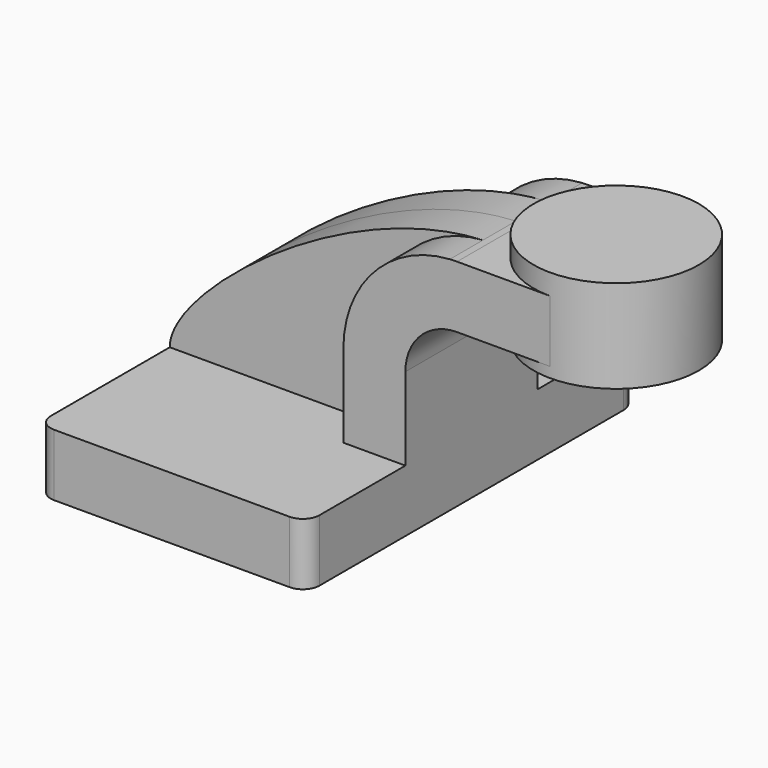
from build123d import *

# Parameters (mm, degrees)
F1_DEPTH = 63.5
F2_DEPTH = 25.4
F3_DEPTH = 12.7
F5_R     = 5.08


with BuildPart() as f1:
    # F0 (on Front) → F1 (new body, symmetric)
    with BuildSketch(Plane.XZ):
        Polygon((22.225, 9.525), (-41.275, 9.525), (-41.275, -9.525), (41.275, -9.525), (41.275, 9.525), align=None)
    extrude(amount=F1_DEPTH, both=True)

    # F0 (on Front) → F2 (join, symmetric)
    with BuildSketch(Plane.XZ):
        with BuildLine():
            Line((22.225, 34.925), (22.225, 9.525))
            Line((22.225, 9.525), (41.275, 9.525))
            Line((41.275, 9.525), (41.275, 34.925))
            ThreePointArc((41.275, 34.925), (45.92468, 46.15032), (57.15, 50.8))
            Line((57.15, 50.8), (60.325, 50.8))
            Line((60.325, 50.8), (60.325, 69.85))
            Line((60.325, 69.85), (57.15, 69.85))
            add(Edge.make_bspline(
                [(54.932606, 69.779538), (55.674519, 69.814721), (56.413753, 69.838317), (57.15, 69.85)],
                knots=[113.508266, 113.508266, 113.508266, 113.508266, 115.440834, 115.440834, 115.440834, 115.440834], degree=3))
            ThreePointArc((54.932606, 69.779538), (31.682392, 58.823882), (22.225, 34.925))
        make_face()
        Polygon((73.748745, 69.85), (60.325, 69.85), (60.325, 50.8), (73.748745, 50.8), (85.725, 50.8), (85.725, 61.9125), (85.725, 69.85), align=None)
    extrude(amount=F2_DEPTH, both=True)

    # F0 (on Front) → F3 (join, symmetric)
    with BuildSketch(Plane.XZ):
        with BuildLine():
            add(Edge.make_bspline(
                [(-41.275, 9.525), (-41.462009, 25.67143), (11.356779, 67.713042), (54.932606, 69.779538)],
                knots=[0, 0, 0, 0, 113.508266, 113.508266, 113.508266, 113.508266], degree=3))
            Line((-41.275, 9.525), (22.225, 9.525))
            Line((22.225, 9.525), (22.225, 34.925))
            ThreePointArc((22.225, 34.925), (31.682392, 58.823882), (54.932606, 69.779538))
        make_face()
    extrude(amount=F3_DEPTH, both=True)

    # F0 (on Front) → F4 (revolve)
    with BuildSketch(Plane.XZ):
        Polygon((111.125, 76.2), (85.725, 76.2), (85.725, 69.85), (85.725, 61.9125), (85.725, 50.8), (85.725, 47.625), (111.125, 47.625), align=None)
    revolve(axis=Axis((85.725, 0, 61.9125), (0, 0, 1)))

    # F5
    f5_edges = [f1.edges().sort_by_distance(p)[0] for p in [
        (-41.275, -63.5, 0),
        (41.275, -63.5, 0),
        (41.275, 63.5, 0),
        (-41.275, 63.5, 0),
    ]]
    fillet(f5_edges, radius=F5_R)


solid = f1.part
